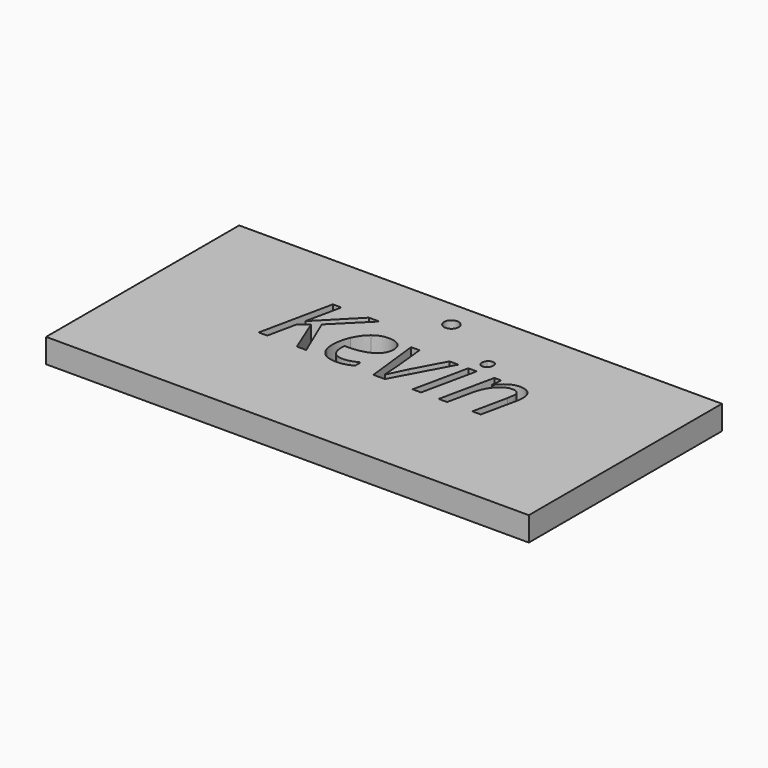
from build123d import *

# Parameters (mm, degrees)
F0_W     = 100
F0_H     = 50
F0_R     = 1.5
F1_DEPTH = 5


with BuildPart() as f1:
    # F0 (on Top) → F1 (new body)
    with BuildSketch(Plane.XY):
        with Locations((-50, 25)):
            Rectangle(F0_W, F0_H)
        with BuildLine():
            Line((-67.895121627, 31.2540210023), (-64.2629270238, 22.6869599894))
            Line((-64.2629270238, 22.6869599894), (-66.1936727369, 22.6869599894))
            add(Edge.make_bspline(
                [(-66.1936727369, 22.6869599894), (-66.9413797687, 24.5678585671), (-67.7156719394, 26.4205104347)],
                knots=[0, 0, 0, 1, 1, 1], degree=2))
            add(Edge.make_bspline(
                [(-67.7156719394, 26.4205104347), (-68.4899641101, 28.2731623023), (-69.2376711418, 30.1739997341)],
                knots=[0, 0, 0, 1, 1, 1], degree=2))
            Line((-69.2376711418, 30.1739997341), (-71.0421374452, 28.8148345075))
            Line((-71.0421374452, 28.8148345075), (-72.3414861093, 22.6869599894))
            Line((-72.3414861093, 22.6869599894), (-74.1060747042, 22.6869599894))
            Line((-74.1060747042, 22.6869599894), (-70.8992423235, 37.8703974478))
            Line((-70.8992423235, 37.8703974478), (-69.1313305862, 37.8703974478))
            Line((-69.1313305862, 37.8703974478), (-70.6998537817, 30.4963445434))
            Line((-70.6998537817, 30.4963445434), (-63.4321414329, 37.8703974478))
            Line((-63.4321414329, 37.8703974478), (-61.2621294696, 37.8703974478))
            Line((-61.2621294696, 37.8703974478), (-67.895121627, 31.2540210023))
        make_face(mode=Mode.SUBTRACT)
        with BuildLine():
            add(Edge.make_bspline(
                [(-56.3904027649, 22.6603748505), (-57.1381097966, 22.4776020205), (-58.0386813771, 22.4776020205)],
                knots=[0, 0, 0, 1, 1, 1], degree=2))
            add(Edge.make_bspline(
                [(-58.0386813771, 22.4776020205), (-59.9494882361, 22.4776020205), (-61.0411405025, 23.6107935664)],
                knots=[0, 0, 0, 1, 1, 1], degree=2))
            add(Edge.make_bspline(
                [(-61.0411405025, 23.6107935664), (-62.1327927688, 24.7439851123), (-62.1327927688, 26.7478399575)],
                knots=[0, 0, 0, 1, 1, 1], degree=2))
            add(Edge.make_bspline(
                [(-62.1327927688, 26.7478399575), (-62.1327927688, 28.6985245248), (-61.3585005982, 30.4913598299)],
                knots=[0, 0, 0, 1, 1, 1], degree=2))
            add(Edge.make_bspline(
                [(-61.3585005982, 30.4913598299), (-60.5842084275, 32.2841951349), (-59.3064601888, 33.2811378439)],
                knots=[0, 0, 0, 1, 1, 1], degree=2))
            add(Edge.make_bspline(
                [(-59.3064601888, 33.2811378439), (-58.02871195, 34.278080553), (-56.4934201781, 34.278080553)],
                knots=[0, 0, 0, 1, 1, 1], degree=2))
            add(Edge.make_bspline(
                [(-56.4934201781, 34.278080553), (-54.9049581284, 34.278080553), (-54.1040808188, 33.5868669414)],
                knots=[0, 0, 0, 1, 1, 1], degree=2))
            add(Edge.make_bspline(
                [(-54.1040808188, 33.5868669414), (-53.3032035092, 32.8956533298), (-53.3032035092, 31.6594443706)],
                knots=[0, 0, 0, 1, 1, 1], degree=2))
            add(Edge.make_bspline(
                [(-53.3032035092, 31.6594443706), (-53.3032035092, 29.7918383624), (-55.0279143959, 28.7267712349)],
                knots=[0, 0, 0, 1, 1, 1], degree=2))
            add(Edge.make_bspline(
                [(-55.0279143959, 28.7267712349), (-56.7526252825, 27.6617041074), (-59.9627808055, 27.6617041074)],
                knots=[0, 0, 0, 1, 1, 1], degree=2))
            Line((-59.9627808055, 27.6617041074), (-60.305064469, 27.6617041074))
            Line((-60.305064469, 27.6617041074), (-60.3449421773, 26.8309185165))
            add(Edge.make_bspline(
                [(-60.3449421773, 26.8309185165), (-60.3449421773, 25.4717532899), (-59.7068988435, 24.7074305463)],
                knots=[0, 0, 0, 1, 1, 1], degree=2))
            add(Edge.make_bspline(
                [(-59.7068988435, 24.7074305463), (-59.0688555098, 23.9431078027), (-57.7296291373, 23.9431078027)],
                knots=[0, 0, 0, 1, 1, 1], degree=2))
            add(Edge.make_bspline(
                [(-57.7296291373, 23.9431078027), (-57.0749700917, 23.9431078027), (-56.3837564801, 24.1308653463)],
                knots=[0, 0, 0, 1, 1, 1], degree=2))
            add(Edge.make_bspline(
                [(-56.3837564801, 24.1308653463), (-55.6925428685, 24.3186228898), (-54.6656918782, 24.8170942443)],
                knots=[0, 0, 0, 1, 1, 1], degree=2))
            Line((-54.6656918782, 24.8170942443), (-54.6656918782, 23.2984181842))
            add(Edge.make_bspline(
                [(-54.6656918782, 23.2984181842), (-55.6426957331, 22.8431476804), (-56.3904027649, 22.6603748505)],
                knots=[0, 0, 0, 1, 1, 1], degree=2))
        make_face(mode=Mode.SUBTRACT)
        with Locations((-51.5, 44.3245553203)):
            Circle(F0_R, mode=Mode.SUBTRACT)
        with BuildLine():
            Line((-47.979529443, 22.6869599894), (-50.3456068058, 22.6869599894))
            Line((-50.3456068058, 22.6869599894), (-51.6449554699, 34.0687225841))
            Line((-51.6449554699, 34.0687225841), (-49.9003057291, 34.0687225841))
            Line((-49.9003057291, 34.0687225841), (-49.2356772564, 27.7015818158))
            add(Edge.make_bspline(
                [(-49.2356772564, 27.7015818158), (-48.9864415792, 25.0231290708), (-48.9864415792, 23.9431078027)],
                knots=[0, 0, 0, 1, 1, 1], degree=2))
            Line((-48.9864415792, 23.9431078027), (-48.9233018743, 23.9431078027))
            add(Edge.make_bspline(
                [(-48.9233018743, 23.9431078027), (-47.604014356, 26.8010102353), (-47.0656652931, 27.7979529443)],
                knots=[0, 0, 0, 1, 1, 1], degree=2))
            Line((-47.0656652931, 27.7979529443), (-43.6893526519, 34.0687225841))
            Line((-43.6893526519, 34.0687225841), (-41.8416854978, 34.0687225841))
            Line((-41.8416854978, 34.0687225841), (-47.979529443, 22.6869599894))
        make_face(mode=Mode.SUBTRACT)
        Polygon((-38.0499800611, 34.0687225841), (-40.4825202712, 22.6869599894), (-42.227170012, 22.6869599894), (-39.7946298019, 34.0687225841), align=None, mode=Mode.SUBTRACT)
        with BuildLine():
            Line((-28.1038149674, 22.6869599894), (-29.8684035624, 22.6869599894))
            Line((-29.8684035624, 22.6869599894), (-28.3297886481, 29.8749169214))
            add(Edge.make_bspline(
                [(-28.3297886481, 29.8749169214), (-28.1237538216, 30.9549381896), (-28.1237538216, 31.370330985)],
                knots=[0, 0, 0, 1, 1, 1], degree=2))
            add(Edge.make_bspline(
                [(-28.1237538216, 31.370330985), (-28.1237538216, 32.0216668882), (-28.492622624, 32.4171208295)],
                knots=[0, 0, 0, 1, 1, 1], degree=2))
            add(Edge.make_bspline(
                [(-28.492622624, 32.4171208295), (-28.8614914263, 32.8125747707), (-29.6690150206, 32.8125747707)],
                knots=[0, 0, 0, 1, 1, 1], degree=2))
            add(Edge.make_bspline(
                [(-29.6690150206, 32.8125747707), (-30.59617174, 32.8125747707), (-31.4734813239, 32.1894855776)],
                knots=[0, 0, 0, 1, 1, 1], degree=2))
            add(Edge.make_bspline(
                [(-31.4734813239, 32.1894855776), (-32.3507909079, 31.5663963844), (-33.0204040941, 30.4132659843)],
                knots=[0, 0, 0, 1, 1, 1], degree=2))
            add(Edge.make_bspline(
                [(-33.0204040941, 30.4132659843), (-33.6900172803, 29.2601355842), (-34.0323009438, 27.6185032567)],
                knots=[0, 0, 0, 1, 1, 1], degree=2))
            Line((-34.0323009438, 27.6185032567), (-35.0824139306, 22.6869599894))
            Line((-35.0824139306, 22.6869599894), (-36.8270636714, 22.6869599894))
            Line((-36.8270636714, 22.6869599894), (-34.3945234614, 34.0687225841))
            Line((-34.3945234614, 34.0687225841), (-32.9522796757, 34.0687225841))
            Line((-32.9522796757, 34.0687225841), (-33.1815764987, 31.9618503257))
            Line((-33.1815764987, 31.9618503257), (-33.0752359431, 31.9618503257))
            add(Edge.make_bspline(
                [(-33.0752359431, 31.9618503257), (-32.0782932341, 33.2279675661), (-31.1494749435, 33.7530240596)],
                knots=[0, 0, 0, 1, 1, 1], degree=2))
            add(Edge.make_bspline(
                [(-31.1494749435, 33.7530240596), (-30.2206566529, 34.278080553), (-29.2237139439, 34.278080553)],
                knots=[0, 0, 0, 1, 1, 1], degree=2))
            add(Edge.make_bspline(
                [(-29.2237139439, 34.278080553), (-27.9044264256, 34.278080553), (-27.1417652532, 33.5552970889)],
                knots=[0, 0, 0, 1, 1, 1], degree=2))
            add(Edge.make_bspline(
                [(-27.1417652532, 33.5552970889), (-26.3791040808, 32.8325136249), (-26.3791040808, 31.5364881032)],
                knots=[0, 0, 0, 1, 1, 1], degree=2))
            add(Edge.make_bspline(
                [(-26.3791040808, 31.5364881032), (-26.3791040808, 30.7156719394), (-26.618370331, 29.6655589525)],
                knots=[0, 0, 0, 1, 1, 1], degree=2))
            Line((-26.618370331, 29.6655589525), (-28.1038149674, 22.6869599894))
        make_face(mode=Mode.SUBTRACT)
        with BuildLine():
            add(Edge.make_bspline(
                [(-39.0369533431, 36.253688688), (-39.3061278745, 36.5079090788), (-39.3061278745, 36.9764721521)],
                knots=[0, 0, 0, 1, 1, 1], degree=2))
            add(Edge.make_bspline(
                [(-39.3061278745, 36.9764721521), (-39.3061278745, 37.5580220657), (-38.9738136382, 37.926890868)],
                knots=[0, 0, 0, 1, 1, 1], degree=2))
            add(Edge.make_bspline(
                [(-38.9738136382, 37.926890868), (-38.6414994018, 38.2957596703), (-38.1131197661, 38.2957596703)],
                knots=[0, 0, 0, 1, 1, 1], degree=2))
            add(Edge.make_bspline(
                [(-38.1131197661, 38.2957596703), (-37.1992556161, 38.2957596703), (-37.1992556161, 37.3619566662)],
                knots=[0, 0, 0, 1, 1, 1], degree=2))
            add(Edge.make_bspline(
                [(-37.1992556161, 37.3619566662), (-37.1992556161, 36.7903761797), (-37.5465239931, 36.3949222385)],
                knots=[0, 0, 0, 1, 1, 1], degree=2))
            add(Edge.make_bspline(
                [(-37.5465239931, 36.3949222385), (-37.8937923701, 35.9994682972), (-38.3523860162, 35.9994682972)],
                knots=[0, 0, 0, 1, 1, 1], degree=2))
            add(Edge.make_bspline(
                [(-38.3523860162, 35.9994682972), (-38.7677788116, 35.9994682972), (-39.0369533431, 36.253688688)],
                knots=[0, 0, 0, 1, 1, 1], degree=2))
        make_face(mode=Mode.SUBTRACT)
    extrude(amount=F1_DEPTH)


solid = f1.part
